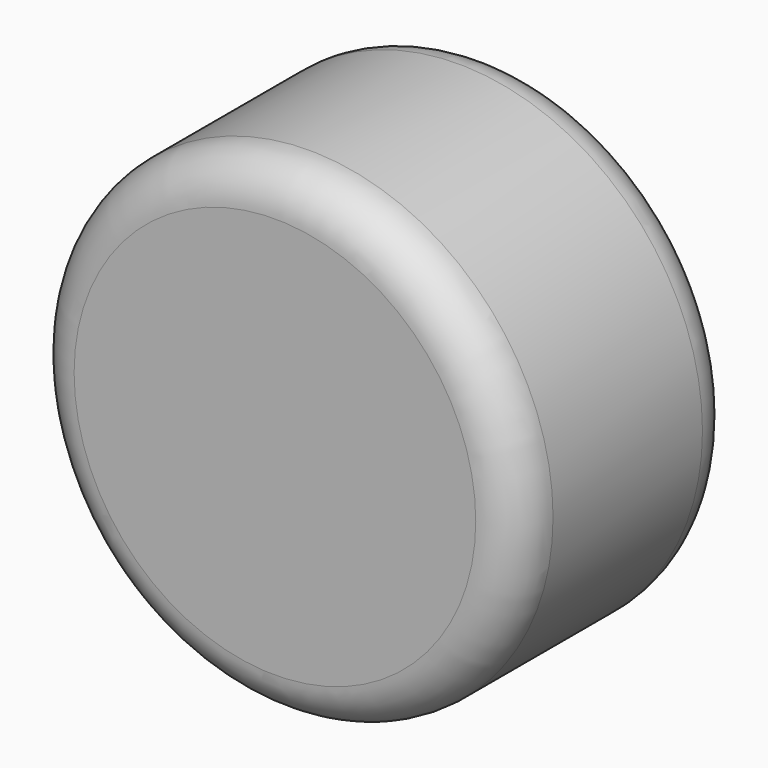
from build123d import *

# Parameters (mm, degrees)
F0_R     = 28.8392585449
F1_DEPTH = 6.858
F2_DEPTH = 25.4
F3_R     = 5.08
F4_R     = 5.08


with BuildPart() as f1:
    # F0 (on Front) → F1 (new body)
    with BuildSketch(Plane.XZ):
        Circle(F0_R)
    extrude(amount=F1_DEPTH)

    # F2 (add): a face of the model
    f2_faces = [f1.faces().sort_by_distance(p)[0] for p in [
        (0, -6.858, 0),
    ]]
    extrude(f2_faces, amount=F2_DEPTH)

    # F3
    f3_edges = [f1.edges().sort_by_distance(p)[0] for p in [
        (-28.839259, -32.258, 0),
    ]]
    fillet(f3_edges, radius=F3_R)

    # F4
    f4_edges = [f1.edges().sort_by_distance(p)[0] for p in [
        (28.839259, -13.589, 0),
        (-28.839259, -27.178, 0),
        (-28.839259, 0, 0),
    ]]
    fillet(f4_edges, radius=F4_R)


solid = f1.part
